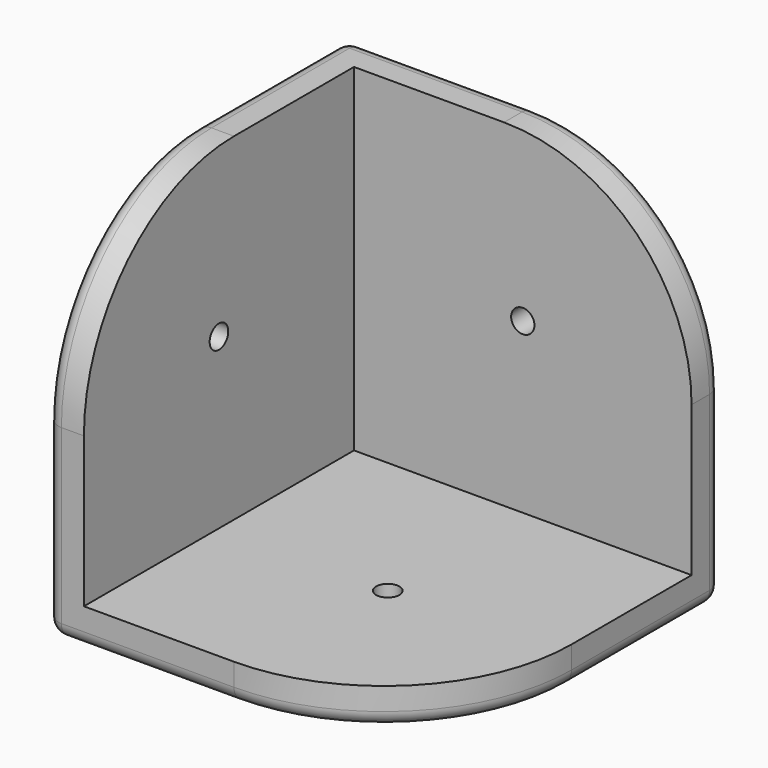
from build123d import *

# Parameters (mm, degrees)
F0_W           = 50
F0_H           = 50
F1_DEPTH       = 5
F2_W           = 45
F2_H           = 5
F3_DEPTH       = 45
F4_R           = 25
F5_R           = 2
F9_D           = 3.1
F9_DEPTH       = 20
F9_TIP         = 0.9313339595
F9_ON_F6_D     = 3.1
F9_ON_F6_DEPTH = 20
F9_ON_F6_TIP   = 0.9313339595
F9_ON_F8_D     = 3.1
F9_ON_F8_DEPTH = 20
F9_ON_F8_TIP   = 0.9313339595


with BuildPart() as f1:
    # F0 (on Top) → F1 (new body)
    with BuildSketch(Plane.XY):
        Rectangle(F0_W, F0_H)
    extrude(amount=F1_DEPTH)

    # F2 (on face) → F3 (join)
    with BuildSketch(Plane.XY.offset(5)):
        Polygon((-20, 25), (-25, 25), (-25, -25), (-20, -25), (-20, 20), align=None)
        with Locations((2.5, 22.5)):
            Rectangle(F2_W, F2_H)
    extrude(amount=F3_DEPTH)

    # F4
    f4_edges = [f1.edges().sort_by_distance(p)[0] for p in [
        (25, 22.5, 50),
        (-22.5, -25, 50),
        (25, -25, 2.5),
    ]]
    fillet(f4_edges, radius=F4_R)

    # F5
    f5_edges = [f1.edges().sort_by_distance(p)[0] for p in [
        (-12.5, -25, 0),
        (17.67767, -17.67767, 0),
        (-25, 0, 0),
        (25, 12.5, 0),
        (0, 25, 0),
        (-25, 12.5, 50),
        (-25, -17.67767, 42.67767),
        (-25, 25, 25),
        (-25, -25, 12.5),
        (25, 25, 12.5),
        (17.67767, 25, 42.67767),
        (-12.5, 25, 50),
    ]]
    fillet(f5_edges, radius=F5_R)

    # F9
    with Locations(Plane.YZ.offset(-20)):
        with Locations((-2.5, 27.5)):
            Hole(F9_D / 2, depth=F9_DEPTH)
            with Locations((0, 0, -(F9_DEPTH + F9_TIP / 2))):  # 118° drill point
                Cone(0, F9_D / 2, F9_TIP, mode=Mode.SUBTRACT)

    # F9 on F6
    with Locations(Plane.XY.offset(5)):
        with Locations((2.5, -2.5)):
            Hole(F9_ON_F6_D / 2, depth=F9_ON_F6_DEPTH)
            with Locations((0, 0, -(F9_ON_F6_DEPTH + F9_ON_F6_TIP / 2))):  # 118° drill point
                Cone(0, F9_ON_F6_D / 2, F9_ON_F6_TIP, mode=Mode.SUBTRACT)

    # F9 on F8
    with Locations(Plane.XZ.offset(-20)):
        with Locations((2.5, 27.5)):
            Hole(F9_ON_F8_D / 2, depth=F9_ON_F8_DEPTH)
            with Locations((0, 0, -(F9_ON_F8_DEPTH + F9_ON_F8_TIP / 2))):  # 118° drill point
                Cone(0, F9_ON_F8_D / 2, F9_ON_F8_TIP, mode=Mode.SUBTRACT)


solid = f1.part
